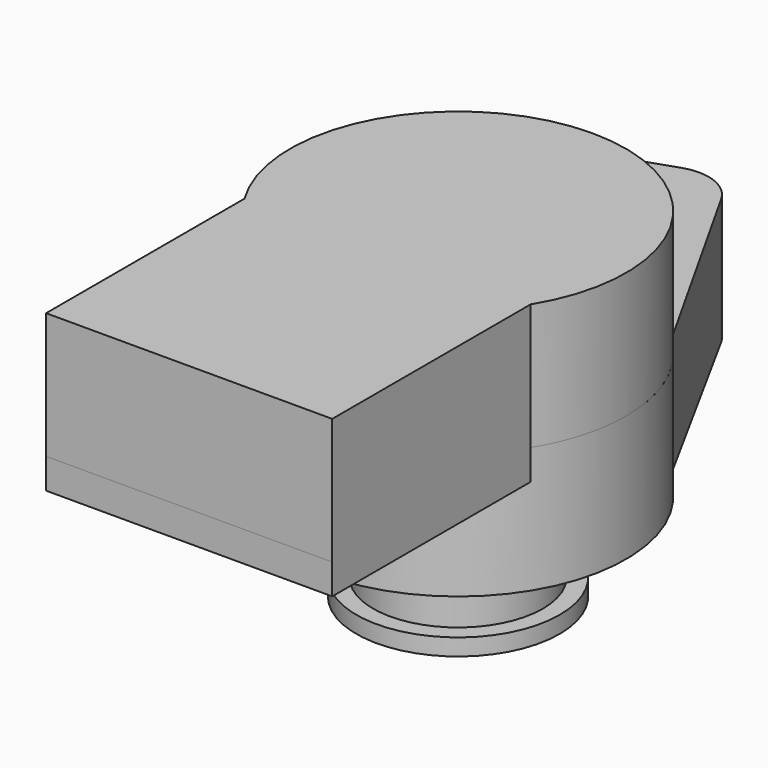
from build123d import *

# Parameters (mm, degrees)
PAD_DEPTH       = 7.5
PAD001_DEPTH    = 7.5
POCKET_DEPTH    = 7.5
SKETCH003_R     = 6.05
PAD002_DEPTH    = 5.2
SKETCH004_W     = 2.87906
SKETCH004_H     = 2.7
SKETCH005_R     = 3
POCKET001_DEPTH = 12.5
SKETCH006_W     = 17.028148
SKETCH006_H     = 14.754951
PAD003_DEPTH    = 1.8
SKETCH007_R     = 3
PAD004_DEPTH    = 14
POCKET002_DEPTH = 5.5


with BuildPart() as obj1:
    # Sketch → Pad (new body)
    with BuildSketch(Plane.XY):
        with BuildLine():
            Line((-9.788379, 2.046372), (-11.935172, 15.787134))
            ThreePointArc((-10.042788, 18.916899), (-11.55915, 17.696764), (-11.935172, 15.787134))
            Line((-10.042788, 18.916899), (-3.587027, 21.114921))
            ThreePointArc((-0.177989, 19.790155), (-1.641167, 21.073585), (-3.587027, 21.114921))
            Line((-0.177989, 19.790155), (6.506011, 7.594197))
            ThreePointArc((-9.788379, 2.046372), (3.223054, -9.466358), (6.506011, 7.594197))
        make_face()
    extrude(amount=PAD_DEPTH)

    # Sketch001 (on Face8 of Pad) → Pad001 (join)
    with BuildSketch(Plane.XY.offset(7.5)):
        with BuildLine():
            ThreePointArc((8.514074, -5.245049), (0, 10), (-8.514074, -5.245049))
            Line((-8.514074, -5.245049), (-8.514074, -20))
            Line((-8.514074, -20), (8.514074, -20))
            Line((8.514074, -20), (8.514074, -5.245049))
        make_face()
    extrude(amount=PAD001_DEPTH)

    # Sketch002 (on Face5 of Pad001) → Pocket (cut)
    with BuildSketch(Plane.XY.offset(7.5)):
        with BuildLine():
            ThreePointArc((-3.193971, 18.904984), (-6.172641, 18.15209), (-8.992808, 16.933082))
            ThreePointArc((-8.992808, 16.933082), (-10.100634, 13.315905), (-6.483457, 12.208079))
            ThreePointArc((-2.302726, 13.629741), (-4.450229, 13.086935), (-6.483457, 12.208079))
            ThreePointArc((-2.302726, 13.629741), (-0.110728, 16.712985), (-3.193971, 18.904984))
        make_face()
    extrude(amount=-POCKET_DEPTH, mode=Mode.SUBTRACT)

    # Sketch003 (on Face4 of Pocket) → Pad002 (join)
    with BuildSketch(Plane(origin=(0, 0, 0), x_dir=(1, 0, 0), z_dir=(0, 0, -1))):
        Circle(SKETCH003_R)
    extrude(amount=PAD002_DEPTH)

    # Sketch004 (on DatumPlane) → Groove (revolve, cut)
    with BuildSketch(Plane(origin=(6.05, 0, 0), x_dir=(1, 0, 0), z_dir=(0, -1, 0))):
        with Locations((0.43953, -2.85)):
            Rectangle(SKETCH004_W, SKETCH004_H)
    revolve(axis=Axis((0, 0, 0), (0, 0, 1)), mode=Mode.SUBTRACT)

    # Sketch005 (on Face24 of Groove) → Pocket001 (cut)
    with BuildSketch(Plane(origin=(0, 0, -5.2), x_dir=(1, 0, 0), z_dir=(0, 0, -1))):
        Circle(SKETCH005_R)
    extrude(amount=-POCKET001_DEPTH, mode=Mode.SUBTRACT)

    # Sketch006 (on Face9 of Pocket001) → Pad003 (join)
    with BuildSketch(Plane(origin=(0, 0, 7.5), x_dir=(1, 0, 0), z_dir=(0, 0, -1))):
        with Locations((0, 12.622525)):
            Rectangle(SKETCH006_W, SKETCH006_H)
    extrude(amount=PAD003_DEPTH)


with BuildPart() as shaft:
    # Sketch007 → Pad004 (new body)
    with BuildSketch(Plane.XY):
        Circle(SKETCH007_R)
    extrude(amount=PAD004_DEPTH)

    # Sketch008 (on Face2 of Pad004) → Pocket002 (cut)
    with BuildSketch(Plane(origin=(0, 0, 0), x_dir=(1, 0, 0), z_dir=(0, 0, -1))):
        Polygon((-1.5, 3.451957), (-1.5, 1.165905), (-4.471118, 1.165905), (-4.471118, -1.165905), (-1.5, -1.165905), (-1.5, -4.213621), (1.5, -4.213621), (1.5, -1.165905), (4.438438, -1.165905), (4.438438, 1.165905), (1.5, 1.165905), (1.5, 3.451957), align=None)
    extrude(amount=-POCKET002_DEPTH, mode=Mode.SUBTRACT)


solid = Compound([obj1.part, shaft.part])
